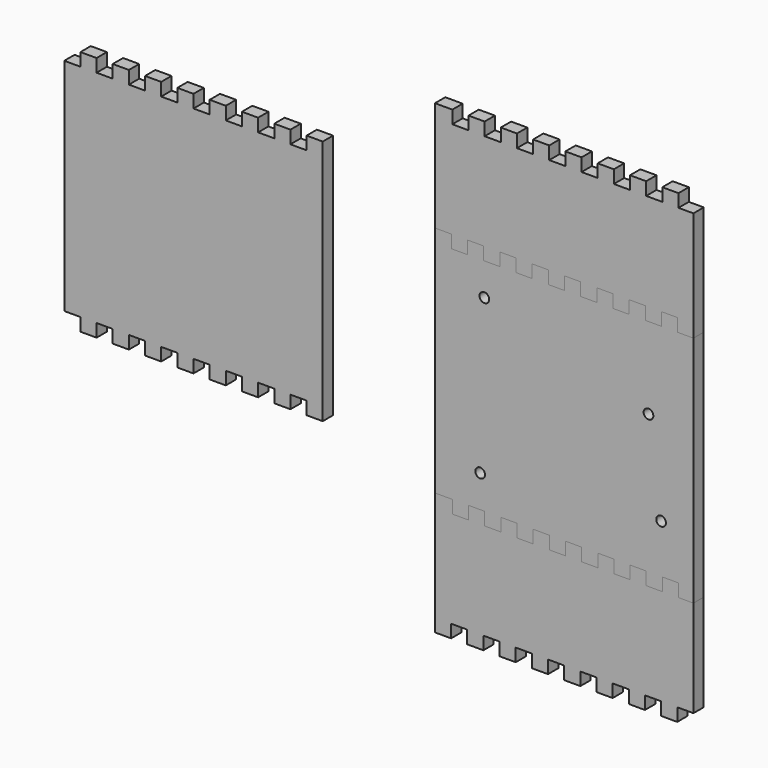
from build123d import *

# Parameters (mm, degrees)
F1_DEPTH = 4
F2_DEPTH = 4
F0_R     = 1.5
F3_DEPTH = 4
F4_DEPTH = 4


with BuildPart() as f1:
    # F0 (on Front) → F1 (new body)
    with BuildSketch(Plane.XZ):
        Polygon((-35.805457, 61.090428), (-35.805457, 27.090428), (-30.707341, 27.090428), (-30.707341, 23.090428), (-25.707341, 23.090428), (-25.707341, 27.090428), (-20.707341, 27.090428), (-20.707341, 23.090428), (-15.707341, 23.090428), (-15.707341, 27.090428), (-10.707341, 27.090428), (-10.707341, 23.090428), (-5.707341, 23.090428), (-5.707341, 27.090428), (-0.707341, 27.090428), (-0.707341, 23.090428), (4.292659, 23.090428), (4.292659, 27.090428), (9.292659, 27.090428), (9.292659, 23.090428), (14.292659, 23.090428), (14.292659, 27.090428), (19.292659, 27.090428), (19.292659, 23.090428), (24.292659, 23.090428), (24.292659, 27.090428), (29.292659, 27.090428), (29.292659, 23.090428), (34.292659, 23.090428), (34.292659, 27.090428), (39.292659, 27.090428), (39.292659, 23.090428), (44.194543, 23.090428), (44.194543, 57.090428), (39.571298, 57.090428), (39.571298, 61.090428), (34.571298, 61.090428), (34.571298, 57.090428), (29.571298, 57.090428), (29.571298, 61.090428), (24.571298, 61.090428), (24.571298, 57.090428), (19.571298, 57.090428), (19.571298, 61.090428), (14.571298, 61.090428), (14.571298, 57.090428), (9.571298, 57.090428), (9.571298, 61.090428), (4.571298, 61.090428), (4.571298, 57.090428), (-0.428702, 57.090428), (-0.428702, 61.090428), (-5.428702, 61.090428), (-5.428702, 57.090428), (-10.428702, 57.090428), (-10.428702, 61.090428), (-15.428702, 61.090428), (-15.428702, 57.090428), (-20.428702, 57.090428), (-20.428702, 61.090428), (-25.428702, 61.090428), (-25.428702, 57.090428), (-30.428702, 57.090428), (-30.428702, 61.090428), align=None)
    extrude(amount=F1_DEPTH)


with BuildPart() as f2:
    # F0 (on Front) → F2 (new body)
    with BuildSketch(Plane.XZ):
        Polygon((-25.405456, -49.109572), (-30.405456, -49.109572), (-30.405456, -45.109572), (-35.805457, -45.109572), (-35.805457, -83.109572), (-30.805457, -83.109572), (-30.805457, -79.109572), (-25.805457, -79.109572), (-25.805457, -83.109572), (-20.805457, -83.109572), (-20.805457, -79.109572), (-15.805457, -79.109572), (-15.805457, -83.109572), (-10.805457, -83.109572), (-10.805457, -79.109572), (-5.805457, -79.109572), (-5.805457, -83.109572), (-0.805457, -83.109572), (-0.805457, -79.109572), (4.194543, -79.109572), (4.194543, -83.109572), (9.194543, -83.109572), (9.194543, -79.109572), (14.194543, -79.109572), (14.194543, -83.109572), (19.194543, -83.109572), (19.194543, -79.109572), (24.194543, -79.109572), (24.194543, -83.109572), (29.194543, -83.109572), (29.194543, -79.109572), (34.194543, -79.109572), (34.194543, -83.109572), (39.194543, -83.109572), (39.194543, -79.109572), (44.194543, -79.109572), (44.194543, -49.109572), (39.594544, -49.109572), (39.594544, -45.109572), (34.594544, -45.109572), (34.594544, -49.109572), (29.594544, -49.109572), (29.594544, -45.109572), (24.594544, -45.109572), (24.594544, -49.109572), (19.594544, -49.109572), (19.594544, -45.109572), (14.594544, -45.109572), (14.594544, -49.109572), (9.594544, -49.109572), (9.594544, -45.109572), (4.594544, -45.109572), (4.594544, -49.109572), (-0.405456, -49.109572), (-0.405456, -45.109572), (-5.405456, -45.109572), (-5.405456, -49.109572), (-10.405456, -49.109572), (-10.405456, -45.109572), (-15.405456, -45.109572), (-15.405456, -49.109572), (-20.405456, -49.109572), (-20.405456, -45.109572), (-25.405456, -45.109572), align=None)
    extrude(amount=F2_DEPTH)


with BuildPart() as f3:
    # F0 (on Front) → F3 (new body)
    with BuildSketch(Plane.XZ):
        Polygon((-30.405456, -45.109572), (-30.405456, -49.109572), (-25.405456, -49.109572), (-25.405456, -45.109572), (-20.405456, -45.109572), (-20.405456, -49.109572), (-15.405456, -49.109572), (-15.405456, -45.109572), (-10.405456, -45.109572), (-10.405456, -49.109572), (-5.405456, -49.109572), (-5.405456, -45.109572), (-0.405456, -45.109572), (-0.405456, -49.109572), (4.594544, -49.109572), (4.594544, -45.109572), (9.594544, -45.109572), (9.594544, -49.109572), (14.594544, -49.109572), (14.594544, -45.109572), (19.594544, -45.109572), (19.594544, -49.109572), (24.594544, -49.109572), (24.594544, -45.109572), (29.594544, -45.109572), (29.594544, -49.109572), (34.594544, -49.109572), (34.594544, -45.109572), (39.594544, -45.109572), (39.594544, -49.109572), (44.194543, -49.109572), (44.194543, 23.090428), (39.292659, 23.090428), (39.292659, 27.090428), (34.292659, 27.090428), (34.292659, 23.090428), (29.292659, 23.090428), (29.292659, 27.090428), (24.292659, 27.090428), (24.292659, 23.090428), (19.292659, 23.090428), (19.292659, 27.090428), (14.292659, 27.090428), (14.292659, 23.090428), (9.292659, 23.090428), (9.292659, 27.090428), (4.292659, 27.090428), (4.292659, 23.090428), (-0.707341, 23.090428), (-0.707341, 27.090428), (-5.707341, 27.090428), (-5.707341, 23.090428), (-10.707341, 23.090428), (-10.707341, 27.090428), (-15.707341, 27.090428), (-15.707341, 23.090428), (-20.707341, 23.090428), (-20.707341, 27.090428), (-25.707341, 27.090428), (-25.707341, 23.090428), (-30.707341, 23.090428), (-30.707341, 27.090428), (-35.805457, 27.090428), (-35.805457, -45.109572), align=None)
        with Locations((-21.805457, -35.109572)):
            Circle(F0_R, mode=Mode.SUBTRACT)
        with Locations((34.194543, -30.009572)):
            Circle(F0_R, mode=Mode.SUBTRACT)
        with Locations((-20.505457, 13.090428)):
            Circle(F0_R, mode=Mode.SUBTRACT)
        with Locations((30.294543, -2.109572)):
            Circle(F0_R, mode=Mode.SUBTRACT)
    extrude(amount=F3_DEPTH)


with BuildPart() as f4:
    # F0 (on Front) → F4 (new body)
    with BuildSketch(Plane.XZ):
        Polygon((-140.536618, 39.341905), (-145.536618, 39.341905), (-145.536618, 35.341905), (-150.536618, 35.341905), (-150.536618, -32.858095), (-145.536618, -32.858095), (-145.536618, -36.858095), (-140.536618, -36.858095), (-140.536618, -32.858095), (-135.536618, -32.858095), (-135.536618, -36.858095), (-130.536618, -36.858095), (-130.536618, -32.858095), (-125.536618, -32.858095), (-125.536618, -36.858095), (-120.536618, -36.858095), (-120.536618, -32.858095), (-115.536618, -32.858095), (-115.536618, -36.858095), (-110.536618, -36.858095), (-110.536618, -32.858095), (-105.536618, -32.858095), (-105.536618, -36.858095), (-100.536618, -36.858095), (-100.536618, -32.858095), (-95.536618, -32.858095), (-95.536618, -36.858095), (-90.536618, -36.858095), (-90.536618, -32.858095), (-85.536618, -32.858095), (-85.536618, -36.858095), (-80.536618, -36.858095), (-80.536618, -32.858095), (-75.536618, -32.858095), (-75.536618, -36.858095), (-70.536618, -36.858095), (-70.536618, 39.341905), (-75.536618, 39.341905), (-75.536618, 35.341905), (-80.536618, 35.341905), (-80.536618, 39.341905), (-85.536618, 39.341905), (-85.536618, 35.341905), (-90.536618, 35.341905), (-90.536618, 39.341905), (-95.536618, 39.341905), (-95.536618, 35.341905), (-100.536618, 35.341905), (-100.536618, 39.341905), (-105.536618, 39.341905), (-105.536618, 35.341905), (-110.536618, 35.341905), (-110.536618, 39.341905), (-115.536618, 39.341905), (-115.536618, 35.341905), (-120.536618, 35.341905), (-120.536618, 39.341905), (-125.536618, 39.341905), (-125.536618, 35.341905), (-130.536618, 35.341905), (-130.536618, 39.341905), (-135.536618, 39.341905), (-135.536618, 35.341905), (-140.536618, 35.341905), align=None)
    extrude(amount=F4_DEPTH)


solid = Compound([f1.part, f2.part, f3.part, f4.part])
